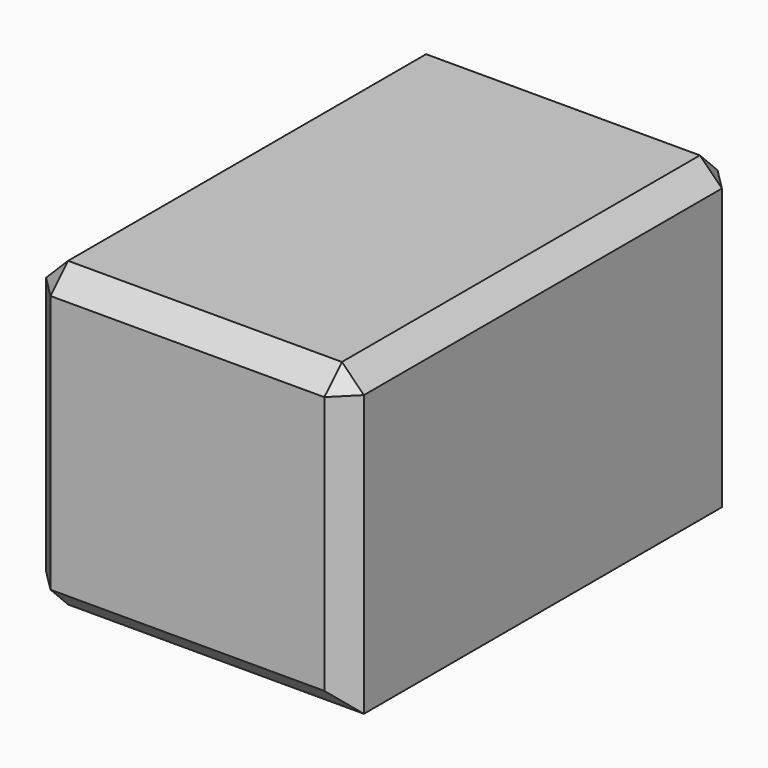
from build123d import *

# Parameters (mm, degrees)
F0_W     = 91.686919
F0_H     = 87.288838
F1_DEPTH = 141.779242
F2_SIZE  = 6.35
F3_T     = -2.54


with BuildPart() as f1:
    # F0 (on Front) → F1 (new body)
    with BuildSketch(Plane.XZ):
        with Locations((-45.843459, -43.644419)):
            Rectangle(F0_W, F0_H)
    extrude(amount=F1_DEPTH)

    # F2
    f2_edges = [f1.edges().sort_by_distance(p)[0] for p in [
        (-45.84346, -141.779242, 0),
        (-91.686919, -70.889621, 0),
        (-91.686919, -70.889621, -87.288838),
        (-91.686919, 0, -43.644419),
        (-91.686919, -141.779242, -43.644419),
        (0, -70.889621, 0),
        (-45.84346, 0, 0),
        (-45.84346, -141.779242, -87.288838),
        (0, -141.779242, -43.644419),
        (0, 0, -43.644419),
    ]]
    chamfer(f2_edges, length=F2_SIZE)

    # F3
    f3_openings = [f1.faces().sort_by_distance(p)[0] for p in [
        (-42.739325, -67.829256, -87.288838),
    ]]
    offset(amount=F3_T, openings=f3_openings)


solid = f1.part
